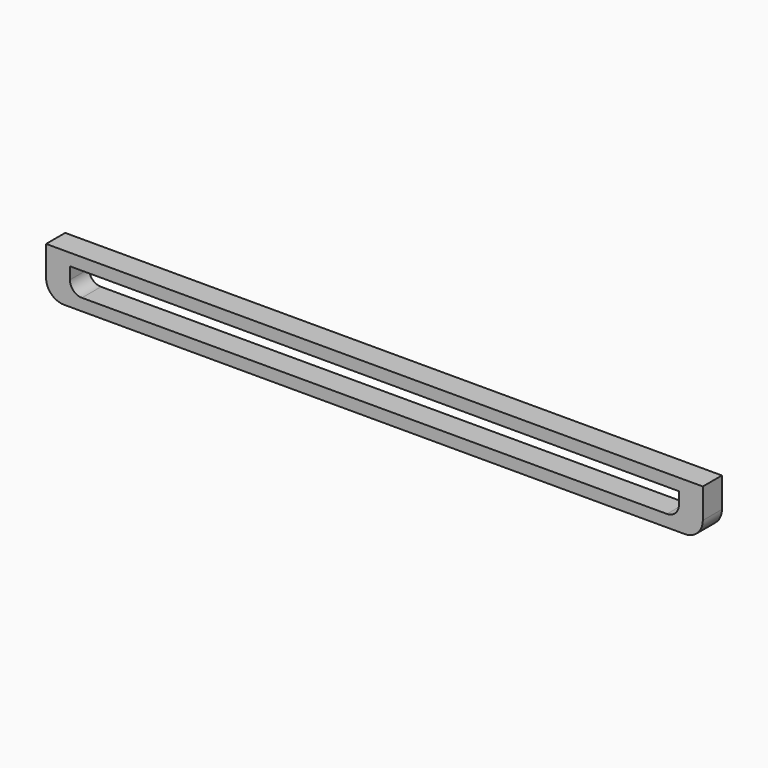
from build123d import *

# Parameters (mm, degrees)
BOX001_W     = 51
BOX001_H     = 2
BOX001_DEPTH = 2
BOX_W        = 55
BOX_H        = 2
BOX_DEPTH    = 4
FILLET_R     = 1.5
FILLET001_R  = 1
FILLET002_R  = 1


with BuildPart() as cube001:
    # Box001 → Box001 (new body)
    with BuildSketch(Plane(origin=(2, 0, 1), x_dir=(1, 0, 0), z_dir=(0, 0, 1))):
        with Locations((25.5, 1)):
            Rectangle(BOX001_W, BOX001_H)
    extrude(amount=BOX001_DEPTH)


with BuildPart() as fillet002:
    # Box → Box (new body)
    with BuildSketch(Plane.XY):
        with Locations((27.5, 1)):
            Rectangle(BOX_W, BOX_H)
    extrude(amount=BOX_DEPTH)

    # Cut: cut Cube001
    add(cube001.part, mode=Mode.SUBTRACT)

    # Fillet
    fillet_edges = [fillet002.edges().sort_by_distance(p)[0] for p in [
        (0, 1, 0),
        (55, 1, 0),
    ]]
    fillet(fillet_edges, radius=FILLET_R)

    # Fillet001
    fillet001_edges = [fillet002.edges().sort_by_distance(p)[0] for p in [
        (2, 1, 1),
    ]]
    fillet(fillet001_edges, radius=FILLET001_R)

    # Fillet002
    fillet002_edges = [fillet002.edges().sort_by_distance(p)[0] for p in [
        (53, 1, 1),
    ]]
    fillet(fillet002_edges, radius=FILLET002_R)


solid = fillet002.part
